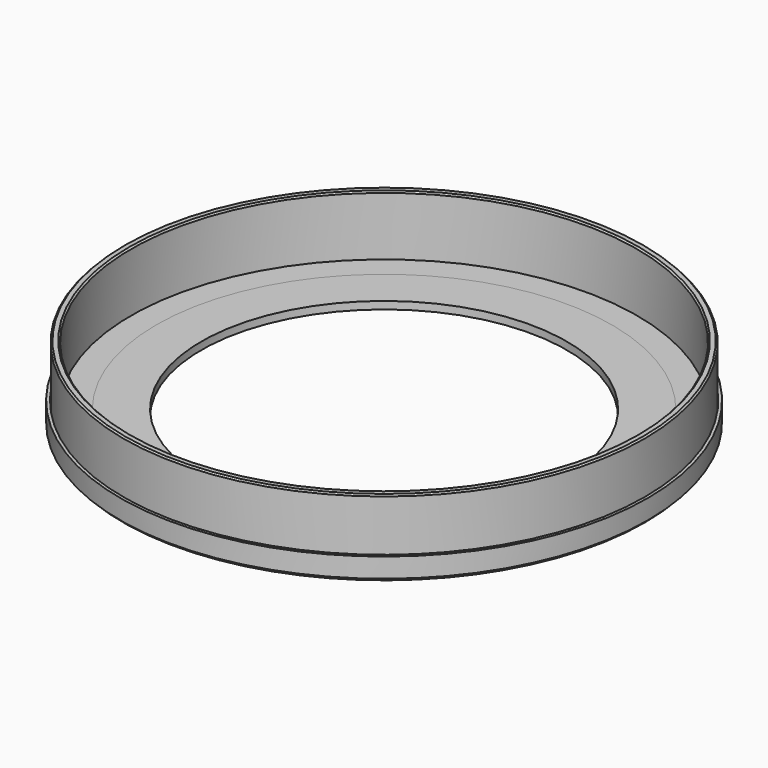
from build123d import *

# Parameters (mm, degrees)
SKETCH_R        = 86.75
SKETCH_R_2      = 67.5
PAD_DEPTH       = 2.5
SKETCH001_R     = 86.75
SKETCH001_R_2   = 84.25
PAD001_DEPTH    = 22.5
CHAMFER_SIZE    = 0.5
CHAMFER001_SIZE = 0.5
CHAMFER002_SIZE = 0.5
CHAMFER003_SIZE = 0.5
CHAMFER004_SIZE = 0.5
SKETCH002_R     = 87.9
SKETCH002_R_2   = 67.5
PAD002_DEPTH    = 2.5
SKETCH003_R     = 87.9
SKETCH003_R_2   = 86.9
PAD003_DEPTH    = 5
CHAMFER005_SIZE = 1
SKETCH004_R     = 75.875
SKETCH004_R_2   = 60.875
PAD004_DEPTH    = 2.5


with BuildPart() as cell:
    # Sketch → Pad (new body)
    with BuildSketch(Plane.XY):
        Circle(SKETCH_R)
        Circle(SKETCH_R_2, mode=Mode.SUBTRACT)
    extrude(amount=PAD_DEPTH)

    # Sketch001 → Pad001 (join)
    with BuildSketch(Plane.XY):
        Circle(SKETCH001_R)
        Circle(SKETCH001_R_2, mode=Mode.SUBTRACT)
    extrude(amount=PAD001_DEPTH)

    # Chamfer
    chamfer_edges = [cell.edges().sort_by_distance(p)[0] for p in [
        (-67.5, 0, 2.5),
    ]]
    chamfer(chamfer_edges, length=CHAMFER_SIZE)

    # Chamfer001
    chamfer001_edges = [cell.edges().sort_by_distance(p)[0] for p in [
        (-86.75, 0, 0),
    ]]
    chamfer(chamfer001_edges, length=CHAMFER001_SIZE)

    # Chamfer002
    chamfer002_edges = [cell.edges().sort_by_distance(p)[0] for p in [
        (-86.75, 0, 22.5),
    ]]
    chamfer(chamfer002_edges, length=CHAMFER002_SIZE)

    # Chamfer003
    chamfer003_edges = [cell.edges().sort_by_distance(p)[0] for p in [
        (-84.25, 0, 22.5),
    ]]
    chamfer(chamfer003_edges, length=CHAMFER003_SIZE)

    # Chamfer004
    chamfer004_edges = [cell.edges().sort_by_distance(p)[0] for p in [
        (-67.5, 0, 0),
    ]]
    chamfer(chamfer004_edges, length=CHAMFER004_SIZE)


with BuildPart() as cell_cover:
    # Sketch002 → Pad002 (new body)
    with BuildSketch(Plane.XY):
        Circle(SKETCH002_R)
        Circle(SKETCH002_R_2, mode=Mode.SUBTRACT)
    extrude(amount=-PAD002_DEPTH)

    # Sketch003 → Pad003 (join)
    with BuildSketch(Plane.XY):
        Circle(SKETCH003_R)
        Circle(SKETCH003_R_2, mode=Mode.SUBTRACT)
    extrude(amount=PAD003_DEPTH)

    # Chamfer005
    chamfer005_edges = [cell_cover.edges().sort_by_distance(p)[0] for p in [
        (-87.9, 0, -2.5),
    ]]
    chamfer(chamfer005_edges, length=CHAMFER005_SIZE)


with BuildPart() as filter_cutting_template:
    # Sketch004 → Pad004 (new body)
    with BuildSketch(Plane.XY):
        Circle(SKETCH004_R)
        Circle(SKETCH004_R_2, mode=Mode.SUBTRACT)
    extrude(amount=PAD004_DEPTH)


solid = Compound([cell.part, cell_cover.part, filter_cutting_template.part])
